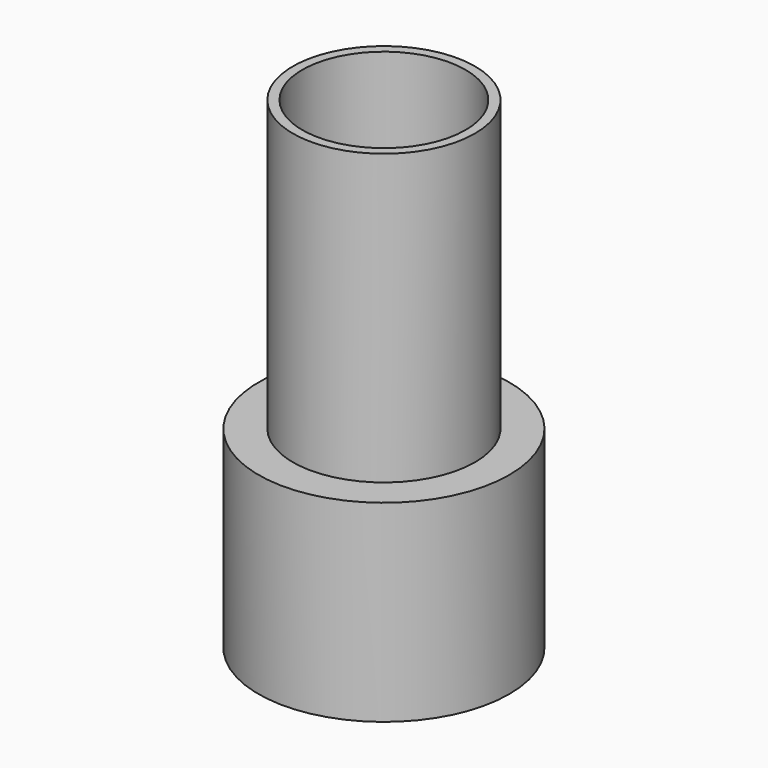
from build123d import *

# Parameters (mm, degrees)
F0_R     = 41.275
F1_DEPTH = 158.75
F2_R     = 41.275
F2_R_2   = 29.972
F3_DEPTH = 95.25
F4_R     = 26.8605
F5_DEPTH = 158.751


with BuildPart() as f1:
    # F0 (on Top) → F1 (new body)
    with BuildSketch(Plane.XY):
        Circle(F0_R)
    extrude(amount=F1_DEPTH)

    # F2 (on face) → F3 (cut)
    with BuildSketch(Plane.XY.offset(158.75)):
        Circle(F2_R)
        Circle(F2_R_2, mode=Mode.SUBTRACT)
    extrude(amount=-F3_DEPTH, mode=Mode.SUBTRACT)

    # F4 (on face) → F5 (cut, through all)
    with BuildSketch(Plane.XY.offset(158.75)):
        Circle(F4_R)
    extrude(amount=-F5_DEPTH, mode=Mode.SUBTRACT)


solid = f1.part
